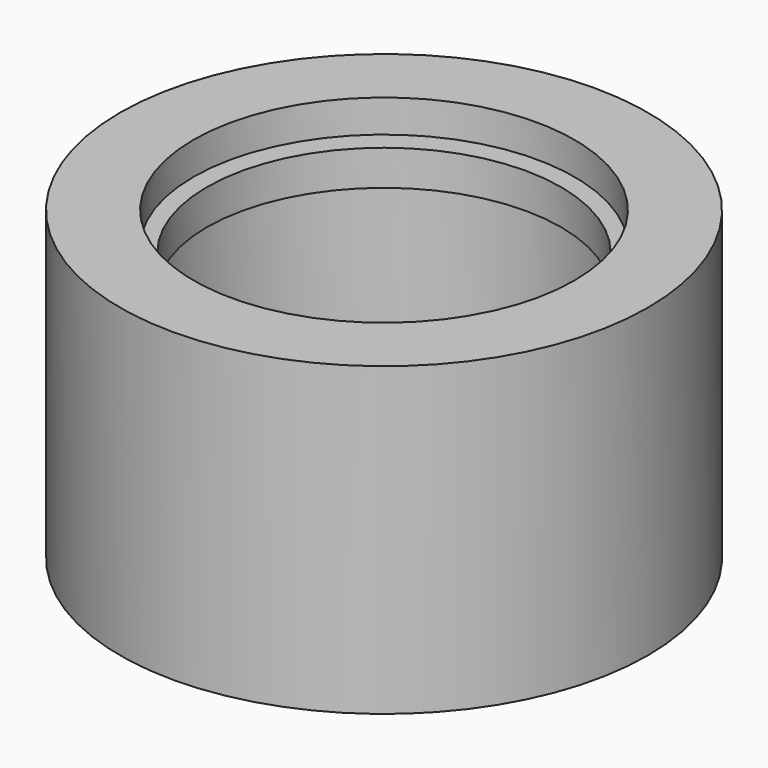
from build123d import *

# Parameters (mm, degrees)
F0_W = 3.98495
F0_H = 5.266879


with BuildPart() as f1:
    # F0 (on Front) → F1 (revolve)
    with BuildSketch(Plane.XZ):
        Polygon((-39.395787, 0), (-28.429946, 0), (-19.900965, 0), (-19.900965, 13.605761), (-28.429946, 13.605761), (-28.429946, 34.31901), (-31.272948, 34.31901), (-31.272948, 40.817283), (-28.429946, 40.817283), (-28.429946, 45.690991), (-39.395787, 45.690991), align=None)
        with Locations((-28.414365, 37.500473)):
            Rectangle(F0_W, F0_H)
    revolve(axis=Axis((0, 0, 30.039568), (0, 0, 1)))


solid = f1.part
